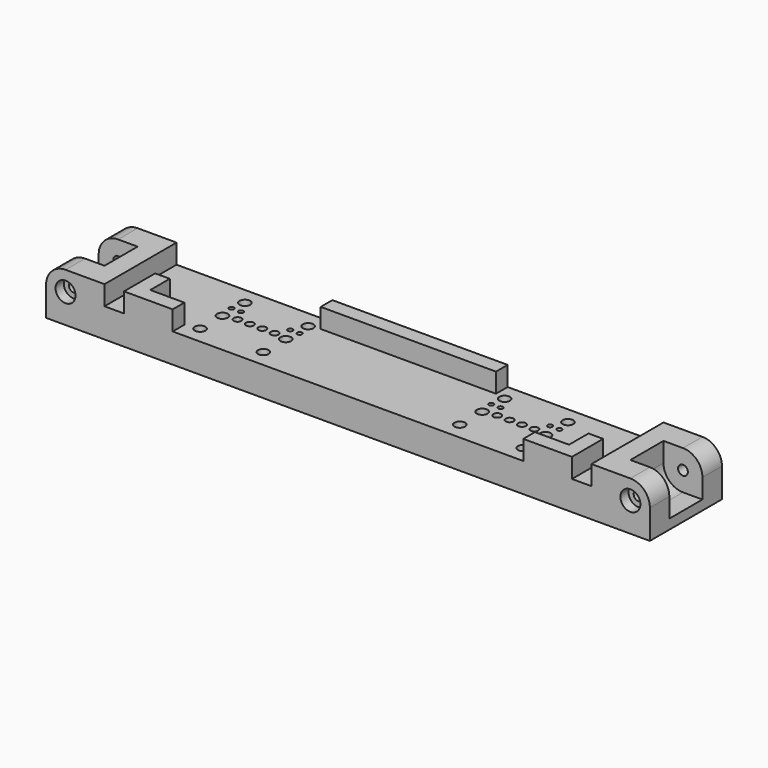
from build123d import *

# Parameters (mm, degrees)
SKETCH_W            = 124
SKETCH_H            = 18.5
SKETCH_R            = 0.5
PAD_DEPTH           = 6
HOLE_D              = 0.7
HOLE_DEPTH          = 25
HOLE_CBORE_D        = 1.6
HOLE_CBORE_DEPTH    = 2.1
CHAMFER_SIZE        = 0.2
SKETCH002_W         = 12
SKETCH002_H         = 18.5
SKETCH002_W_2       = 36
SKETCH002_H_2       = 3
PAD001_DEPTH        = 4
CHAMFER001_SIZE     = 0.4
SKETCH003_R         = 1.1
POCKET_DEPTH        = 10.001
CHAMFER002_SIZE     = 0.7
SKETCH004_W         = 8
SKETCH004_H         = 8.5
POCKET001_DEPTH     = 8
HOLE003_D           = 2
HOLE003_CBORE_D     = 4.1
HOLE003_CBORE_DEPTH = 2.1
FILLET_R            = 4
POCKET002_DEPTH     = 2.1


with BuildPart() as part:
    # Sketch → Pad (new body)
    with BuildSketch(Plane(origin=(0, 0, 0), x_dir=(-1, 0, 0), z_dir=(0, 0, -1))):
        with Locations((0, -6.75)):
            Rectangle(SKETCH_W, SKETCH_H)
        with Locations((-33.67, -3.81)):
            Circle(SKETCH_R, mode=Mode.SUBTRACT)
        with Locations((-31.745, -3.81)):
            Circle(SKETCH_R, mode=Mode.SUBTRACT)
        with Locations((-21.595, -3.81)):
            Circle(SKETCH_R, mode=Mode.SUBTRACT)
        with Locations((-19.67, -3.81)):
            Circle(SKETCH_R, mode=Mode.SUBTRACT)
        with Locations((19.67, -3.81)):
            Circle(SKETCH_R, mode=Mode.SUBTRACT)
        with Locations((21.595, -3.81)):
            Circle(SKETCH_R, mode=Mode.SUBTRACT)
        with Locations((31.745, -3.81)):
            Circle(SKETCH_R, mode=Mode.SUBTRACT)
        with Locations((33.67, -3.81)):
            Circle(SKETCH_R, mode=Mode.SUBTRACT)
    extrude(amount=PAD_DEPTH)

    # Hole
    with Locations(Plane.XY):
        with Locations((-30.48, -6.25), (-27.94, -6.25), (-25.4, -6.25), (-22.86, -6.25), (22.86, -6.25), (25.4, -6.25), (27.94, -6.25), (30.48, -6.25)):
            CounterBoreHole(HOLE_D / 2, HOLE_CBORE_D / 2, HOLE_CBORE_DEPTH, depth=HOLE_DEPTH)

    # Chamfer
    chamfer_edges = [part.edges().sort_by_distance(p)[0] for p in [
        (30.13, -6.25, -2.1),
        (27.59, -6.25, -2.1),
        (25.05, -6.25, -2.1),
        (22.51, -6.25, -2.1),
        (-30.83, -6.25, -2.1),
        (-28.29, -6.25, -2.1),
        (-25.75, -6.25, -2.1),
        (-23.21, -6.25, -2.1),
    ]]
    chamfer(chamfer_edges, length=CHAMFER_SIZE)

    # Sketch002 (on Face25 of Chamfer) → Pad001 (join)
    with BuildSketch(Plane.XY):
        with Locations((-56, -6.75)):
            Rectangle(SKETCH002_W, SKETCH002_H)
        with Locations((56, -6.75)):
            Rectangle(SKETCH002_W, SKETCH002_H)
        with Locations((0, 1)):
            Rectangle(SKETCH002_W_2, SKETCH002_H_2)
        Polygon((-46, -16), (-46, -8), (-43, -8), (-43, -13), (-36, -13), (-36, -16), align=None)
        Polygon((46, -16), (46, -8), (43, -8), (43, -13), (36, -13), (36, -16), align=None)
    extrude(amount=PAD001_DEPTH)

    # Chamfer001
    chamfer001_edges = [part.edges().sort_by_distance(p)[0] for p in [
        (34.17, -3.81, -6),
        (32.245, -3.81, -6),
        (22.095, -3.81, -6),
        (20.17, -3.81, -6),
        (-19.17, -3.81, -6),
        (-21.095, -3.81, -6),
        (-31.245, -3.81, -6),
        (-33.17, -3.81, -6),
    ]]
    chamfer(chamfer001_edges, length=CHAMFER001_SIZE)

    # Sketch003 (on Face23 of Chamfer001) → Pocket (cut, through all)
    with BuildSketch(Plane.XY.offset(4)):
        with Locations((-33.17, -1)):
            Circle(SKETCH003_R)
        with Locations((-20.17, -1)):
            Circle(SKETCH003_R)
        with Locations((-33.17, -6.75)):
            Circle(SKETCH003_R)
        with Locations((-20.17, -6.75)):
            Circle(SKETCH003_R)
        with Locations((-20.17, -12.5)):
            Circle(SKETCH003_R)
        with Locations((-33.17, -12.5)):
            Circle(SKETCH003_R)
        with Locations((20.17, -1)):
            Circle(SKETCH003_R)
        with Locations((33.17, -1)):
            Circle(SKETCH003_R)
        with Locations((20.17, -6.75)):
            Circle(SKETCH003_R)
        with Locations((33.17, -6.75)):
            Circle(SKETCH003_R)
        with Locations((33.17, -12.5)):
            Circle(SKETCH003_R)
        with Locations((20.17, -12.5)):
            Circle(SKETCH003_R)
    extrude(amount=-POCKET_DEPTH, mode=Mode.SUBTRACT)

    # Chamfer002
    chamfer002_edges = [part.edges().sort_by_distance(p)[0] for p in [
        (19.07, -6.75, -6),
        (19.07, -1, -6),
        (19.07, -12.5, -6),
        (32.07, -12.5, -6),
        (32.07, -6.75, -6),
        (32.07, -1, -6),
        (-34.27, -1, -6),
        (-34.27, -6.75, -6),
        (-34.27, -12.5, -6),
        (-21.27, -12.5, -6),
        (-21.27, -6.75, -6),
        (-21.27, -1, -6),
    ]]
    chamfer(chamfer002_edges, length=CHAMFER002_SIZE)

    # Sketch004 (on Face35 of Chamfer002) → Pocket001 (cut)
    with BuildSketch(Plane.XY.offset(4)):
        with Locations((-58, -6.75)):
            Rectangle(SKETCH004_W, SKETCH004_H)
        with Locations((58, -6.75)):
            Rectangle(SKETCH004_W, SKETCH004_H)
    extrude(amount=-POCKET001_DEPTH, mode=Mode.SUBTRACT)

    # Hole003 (through all)
    with Locations(Plane.XZ.offset(16)):
        with Locations((-58, 0), (58, 0)):
            CounterBoreHole(HOLE003_D / 2, HOLE003_CBORE_D / 2, HOLE003_CBORE_DEPTH)

    # Fillet
    fillet_edges = [part.edges().sort_by_distance(p)[0] for p in [
        (-62, 0, 4),
        (-62, -13.5, 4),
        (62, 0, 4),
        (62, -13.5, 4),
        (54, -6.75, -4),
        (-54, -6.75, -4),
    ]]
    fillet(fillet_edges, radius=FILLET_R)

    # Sketch015 (on Face1 of Fillet) → Pocket002 (cut)
    with BuildSketch(Plane(origin=(0, 2.5, 0), x_dir=(-1, 0, 0), z_dir=(0, 1, 0))):
        Polygon((-56.845299, 2), (-59.154701, 2), (-60.309401, 0), (-59.154701, -2), (-56.845299, -2), (-55.690599, 0), align=None)
        Polygon((55.690599, 0), (56.845299, -2), (59.154701, -2), (60.309401, 0), (59.154701, 2), (56.845299, 2), align=None)
    extrude(amount=-POCKET002_DEPTH, mode=Mode.SUBTRACT)


solid = part.part
